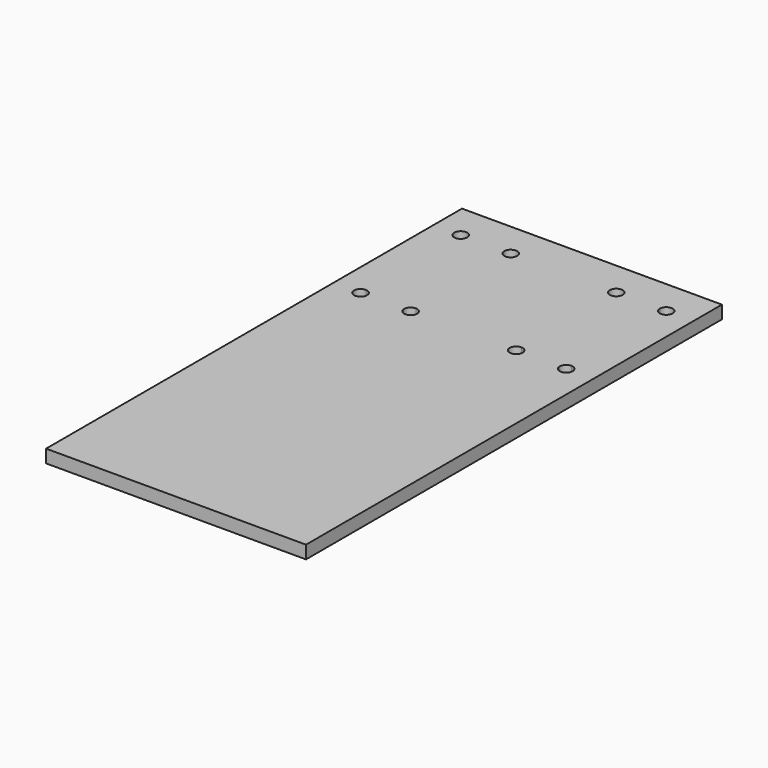
from build123d import *

# Parameters (mm, degrees)
F0_W     = 50
F0_H     = 200
F1_DEPTH = 5


with BuildPart() as f1:
    # F0 (on Top) → F1 (new body)
    with BuildSketch(Plane.XY):
        with Locations((75, 100)):
            Rectangle(F0_W, F0_H)
        with BuildLine():
            Line((87.0556895062, 138.1699442863), (72.7997934073, 138.1699442863))
            ThreePointArc((72.7997934073, 138.1699442863), (68.5320264544, 136.4021773334), (70.2997934073, 140.6699442863))
            Line((70.2997934073, 140.6699442863), (70.2997934073, 183.8083988428))
            ThreePointArc((70.2997934073, 183.8083988428), (68.5320264544, 188.0761657958), (72.7997934073, 186.3083988428))
            Line((72.7997934073, 186.3083988428), (87.0556895062, 186.3083988428))
            ThreePointArc((87.0556895062, 186.3083988428), (89.5556895062, 188.8083988428), (92.0556895062, 186.3083988428))
            ThreePointArc((92.0556895062, 186.3083988428), (91.3234564592, 184.5406318898), (89.5556895062, 183.8083988428))
            Line((89.5556895062, 183.8083988428), (89.5556895062, 140.6699442863))
            ThreePointArc((89.5556895062, 140.6699442863), (91.3234564592, 139.9377112393), (92.0556895062, 138.1699442863))
            ThreePointArc((92.0556895062, 138.1699442863), (89.5556895062, 135.6699442863), (87.0556895062, 138.1699442863))
        make_face(mode=Mode.SUBTRACT)
        with Locations((25, 100)):
            Rectangle(F0_W, F0_H)
        with BuildLine():
            ThreePointArc((10.4443104938, 183.8083988428), (8.6765435408, 188.0761657958), (12.9443104938, 186.3083988428))
            Line((12.9443104938, 186.3083988428), (27.2002065927, 186.3083988428))
            ThreePointArc((27.2002065927, 186.3083988428), (29.7002065927, 188.8083988428), (32.2002065927, 186.3083988428))
            ThreePointArc((32.2002065927, 186.3083988428), (31.4679735456, 184.5406318898), (29.7002065927, 183.8083988428))
            Line((29.7002065927, 183.8083988428), (29.7002065927, 140.6699442863))
            ThreePointArc((29.7002065927, 140.6699442863), (31.4679735456, 139.9377112393), (32.2002065927, 138.1699442863))
            ThreePointArc((32.2002065927, 138.1699442863), (29.7002065927, 135.6699442863), (27.2002065927, 138.1699442863))
            Line((27.2002065927, 138.1699442863), (12.9443104938, 138.1699442863))
            ThreePointArc((12.9443104938, 138.1699442863), (8.6765435408, 136.4021773334), (10.4443104938, 140.6699442863))
            Line((10.4443104938, 140.6699442863), (10.4443104938, 183.8083988428))
        make_face(mode=Mode.SUBTRACT)
        with BuildLine():
            Line((27.2002065927, 186.3083988428), (12.9443104938, 186.3083988428))
            ThreePointArc((12.9443104938, 186.3083988428), (12.2120774467, 184.5406318898), (10.4443104938, 183.8083988428))
            Line((10.4443104938, 183.8083988428), (10.4443104938, 140.6699442863))
            ThreePointArc((10.4443104938, 140.6699442863), (12.2120774467, 139.9377112393), (12.9443104938, 138.1699442863))
            Line((12.9443104938, 138.1699442863), (27.2002065927, 138.1699442863))
            ThreePointArc((27.2002065927, 138.1699442863), (27.9324396397, 139.9377112393), (29.7002065927, 140.6699442863))
            Line((29.7002065927, 140.6699442863), (29.7002065927, 183.8083988428))
            ThreePointArc((29.7002065927, 183.8083988428), (27.9324396397, 184.5406318898), (27.2002065927, 186.3083988428))
        make_face()
        with BuildLine():
            ThreePointArc((70.2997934073, 140.6699442863), (72.0675603603, 139.9377112393), (72.7997934073, 138.1699442863))
            Line((72.7997934073, 138.1699442863), (87.0556895062, 138.1699442863))
            ThreePointArc((87.0556895062, 138.1699442863), (87.7879225533, 139.9377112393), (89.5556895062, 140.6699442863))
            Line((89.5556895062, 140.6699442863), (89.5556895062, 183.8083988428))
            ThreePointArc((89.5556895062, 183.8083988428), (87.7879225533, 184.5406318898), (87.0556895062, 186.3083988428))
            Line((87.0556895062, 186.3083988428), (72.7997934073, 186.3083988428))
            ThreePointArc((72.7997934073, 186.3083988428), (72.0675603603, 184.5406318898), (70.2997934073, 183.8083988428))
            Line((70.2997934073, 183.8083988428), (70.2997934073, 140.6699442863))
        make_face()
    extrude(amount=F1_DEPTH)


solid = f1.part
